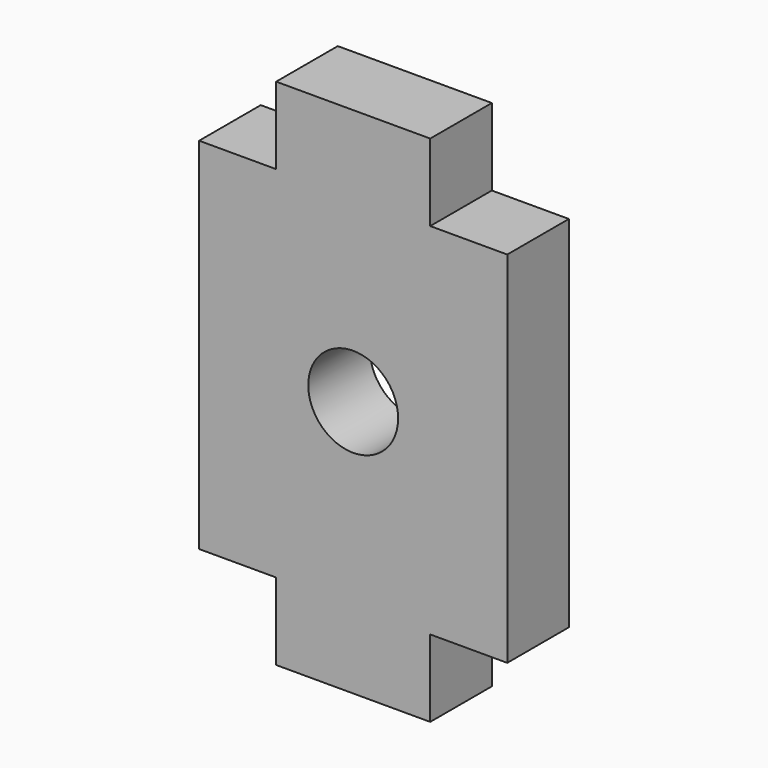
from build123d import *

# Parameters (mm, degrees)
F0_R     = 1.75
F0_W     = 6
F0_H     = 3
F1_DEPTH = 3


with BuildPart() as f1:
    # F0 (on Front) → F1 (new body)
    with BuildSketch(Plane.XZ):
        Polygon((6, -7), (6, 7), (3, 7), (-3, 7), (-6, 7), (-6, -7), (-3, -7), (3, -7), align=None)
        Circle(F0_R, mode=Mode.SUBTRACT)
        with Locations((0, 8.5)):
            Rectangle(F0_W, F0_H)
        with Locations((0, -8.5)):
            Rectangle(F0_W, F0_H)
    extrude(amount=F1_DEPTH)


solid = f1.part
